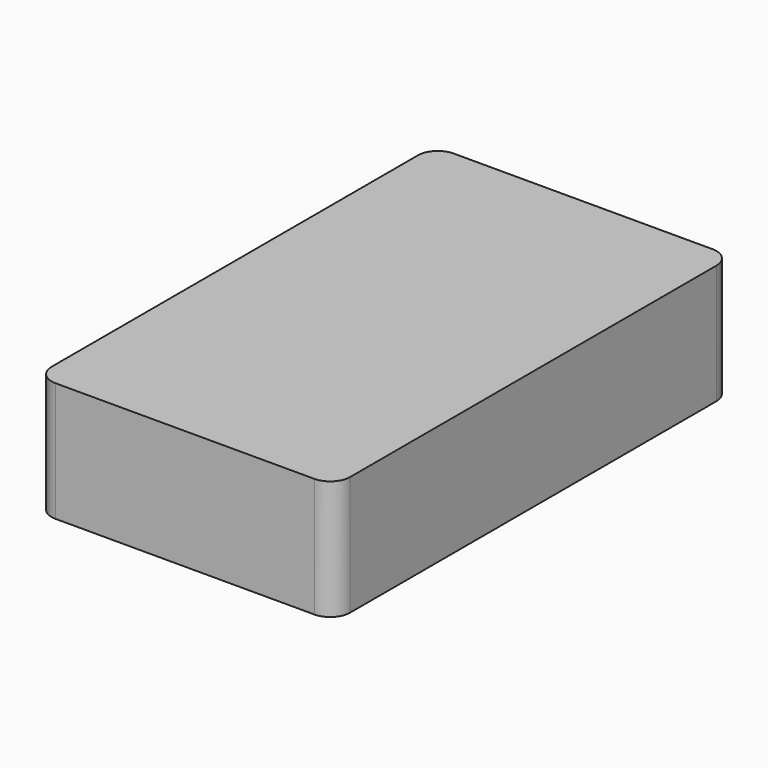
from build123d import *

# Parameters (mm, degrees)
F1_DEPTH = 3


with BuildPart() as f1:
    # F0 (on Top) → F1 (new body, symmetric)
    with BuildSketch(Plane.XY):
        with BuildLine():
            Line((-6.5, -12.5), (6.5, -12.5))
            ThreePointArc((6.5, -12.5), (7.207107, -12.207107), (7.5, -11.5))
            Line((7.5, -11.5), (7.5, 11.5))
            ThreePointArc((7.5, 11.5), (7.207107, 12.207107), (6.5, 12.5))
            Line((6.5, 12.5), (-6.5, 12.5))
            ThreePointArc((-6.5, 12.5), (-7.207107, 12.207107), (-7.5, 11.5))
            Line((-7.5, 11.5), (-7.5, -11.5))
            ThreePointArc((-7.5, -11.5), (-7.207107, -12.207107), (-6.5, -12.5))
        make_face()
    extrude(amount=F1_DEPTH, both=True)


solid = f1.part
